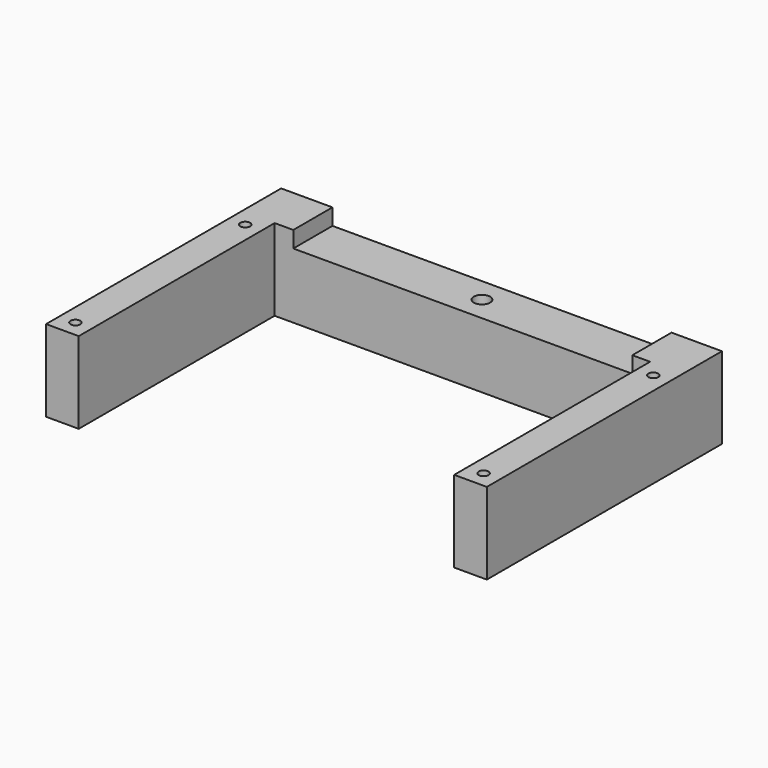
from build123d import *

# Parameters (mm, degrees)
F0_W     = 114.999984
F0_H     = 15
F0_R     = 3
F0_R_2   = 1.5
F1_DEPTH = 25
F2_R     = 2.5
F3_DEPTH = 25
F2_W     = 103.84956
F2_H     = 15
F4_DEPTH = 5
F5_DEPTH = 10


with BuildPart() as f1:
    # F0 (on Top) → F1 (new body)
    with BuildSketch(Plane.XY):
        with Locations((0, 77.500006)):
            Rectangle(F0_W, F0_H)
        Polygon((-57.499992, 70.000006), (-57.499992, 85.000006), (-67.499992, 85.000006), (-67.499992, -4.999994), (-57.499992, -4.999994), align=None)
        with Locations((-62.5, -6e-06)):
            Circle(F0_R, mode=Mode.SUBTRACT)
        with Locations((-62.500006, 64.999994)):
            Circle(F0_R, mode=Mode.SUBTRACT)
        Polygon((67.499992, 85.000006), (57.499992, 85.000006), (57.499992, 70.000006), (57.499992, -4.999994), (67.499992, -4.999994), align=None)
        with Locations((62.5, 6e-06)):
            Circle(F0_R, mode=Mode.SUBTRACT)
        with Locations((62.499994, 65.000006)):
            Circle(F0_R, mode=Mode.SUBTRACT)
        with Locations((62.499994, 65.000006)):
            Circle(F0_R)
        with Locations((62.499994, 65.000006)):
            Circle(F0_R_2, mode=Mode.SUBTRACT)
        with Locations((62.5, 6e-06)):
            Circle(F0_R)
        with Locations((62.5, 6e-06)):
            Circle(F0_R_2, mode=Mode.SUBTRACT)
        with Locations((-62.5, -6e-06)):
            Circle(F0_R)
        with Locations((-62.5, -6e-06)):
            Circle(F0_R_2, mode=Mode.SUBTRACT)
        with Locations((-62.500006, 64.999994)):
            Circle(F0_R)
        with Locations((-62.500006, 64.999994)):
            Circle(F0_R_2, mode=Mode.SUBTRACT)
    extrude(amount=F1_DEPTH)

    # F2 (on face) → F3 (cut)
    with BuildSketch(Plane.XY.offset(25)):
        with Locations((0, 77.500006)):
            Circle(F2_R)
    extrude(amount=-F3_DEPTH, mode=Mode.SUBTRACT)

    # F2 (on face) → F4 (cut)
    with BuildSketch(Plane.XY.offset(25)):
        with Locations((0.137366, 77.500006)):
            Rectangle(F2_W, F2_H)
        with Locations((0, 77.500006)):
            Circle(F2_R, mode=Mode.SUBTRACT)
    extrude(amount=-F4_DEPTH, mode=Mode.SUBTRACT)

    # F0 (on Top) → F5 (cut)
    with BuildSketch(Plane.XY):
        with Locations((-62.500006, 64.999994)):
            Circle(F0_R)
        with Locations((-62.500006, 64.999994)):
            Circle(F0_R_2, mode=Mode.SUBTRACT)
        with Locations((-62.5, -6e-06)):
            Circle(F0_R)
        with Locations((-62.5, -6e-06)):
            Circle(F0_R_2, mode=Mode.SUBTRACT)
        with Locations((62.5, 6e-06)):
            Circle(F0_R)
        with Locations((62.5, 6e-06)):
            Circle(F0_R_2, mode=Mode.SUBTRACT)
        with Locations((62.499994, 65.000006)):
            Circle(F0_R)
        with Locations((62.499994, 65.000006)):
            Circle(F0_R_2, mode=Mode.SUBTRACT)
    extrude(amount=F5_DEPTH, mode=Mode.SUBTRACT)


solid = f1.part
